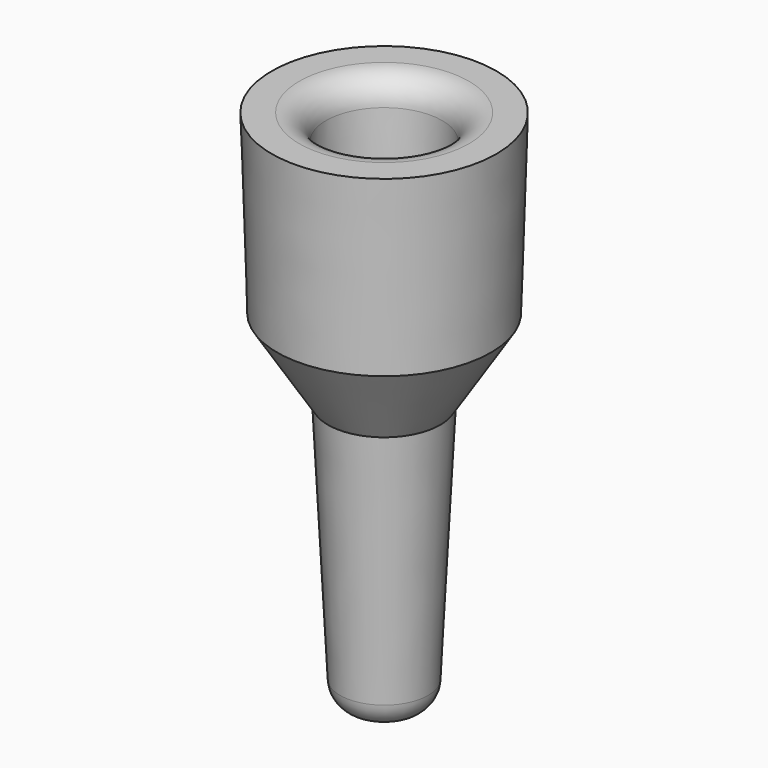
from build123d import *

# Parameters (mm, degrees)
CYLINDER116_R     = 1.2
CYLINDER116_DEPTH = 100
FILLET007_R       = 1
FILLET008_R       = 1


with BuildPart() as obj1:
    # Cylinder116 → Cylinder116 (new body)
    with BuildSketch(Plane.XY.offset(-50)):
        Circle(CYLINDER116_R)
    extrude(amount=CYLINDER116_DEPTH)


with BuildPart() as obj2:
    # Cone004 → Cone004 (revolve)
    with BuildSketch(Plane(origin=(0, 0, -3), x_dir=(1, 0, 0), z_dir=(0, -1, 0))):
        Polygon((0, 0), (1.2, 0), (2, 3), (0, 3), align=None)
    revolve(axis=Axis((0, 0, -3), (0, 0, 1)))


with BuildPart() as syringe_tip_hole_fusion:
    # Cone → Cone (revolve)
    with BuildSketch(Plane.XZ):
        Polygon((0, 0), (2, 0), (2.2, 6.6), (0, 6.6), align=None)
    revolve(axis=Axis((0, 0, 0), (0, 0, 1)))

    # Fusion017: union obj1, obj2
    add(obj1.part)
    add(obj2.part)


with BuildPart() as obj3:
    # Cone003 → Cone003 (revolve)
    with BuildSketch(Plane(origin=(0, 0, -3), x_dir=(1, 0, 0), z_dir=(0, -1, 0))):
        Polygon((0, 0), (2.1, 0), (4, 3), (0, 3), align=None)
    revolve(axis=Axis((0, 0, -3), (0, 0, 1)))


with BuildPart() as obj4:
    # Cone002 → Cone002 (revolve)
    with BuildSketch(Plane(origin=(0, 0, -13), x_dir=(1, 0, 0), z_dir=(0, -1, 0))):
        Polygon((0, 0), (1.6, 0), (2.1, 10), (0, 10), align=None)
    revolve(axis=Axis((0, 0, -13), (0, 0, 1)))

    # Fillet007
    fillet007_edges = [obj4.edges().sort_by_distance(p)[0] for p in [
        (-1.6, 0, -13),
    ]]
    fillet(fillet007_edges, radius=FILLET007_R)


with BuildPart() as syringe_tip_cut_fillet:
    # Cone001 → Cone001 (revolve)
    with BuildSketch(Plane.XZ):
        Polygon((0, 0), (4, 0), (4.2, 6.6), (0, 6.6), align=None)
    revolve(axis=Axis((0, 0, 0), (0, 0, 1)))

    # Fusion016: union obj3, obj4
    add(obj3.part)
    add(obj4.part)

    # Cut012: cut syringe tip hole fusion
    add(syringe_tip_hole_fusion.part, mode=Mode.SUBTRACT)

    # Fillet008
    fillet008_edges = [syringe_tip_cut_fillet.edges().sort_by_distance(p)[0] for p in [
        (-2.2, 0, 6.6),
    ]]
    fillet(fillet008_edges, radius=FILLET008_R)


solid = syringe_tip_cut_fillet.part
